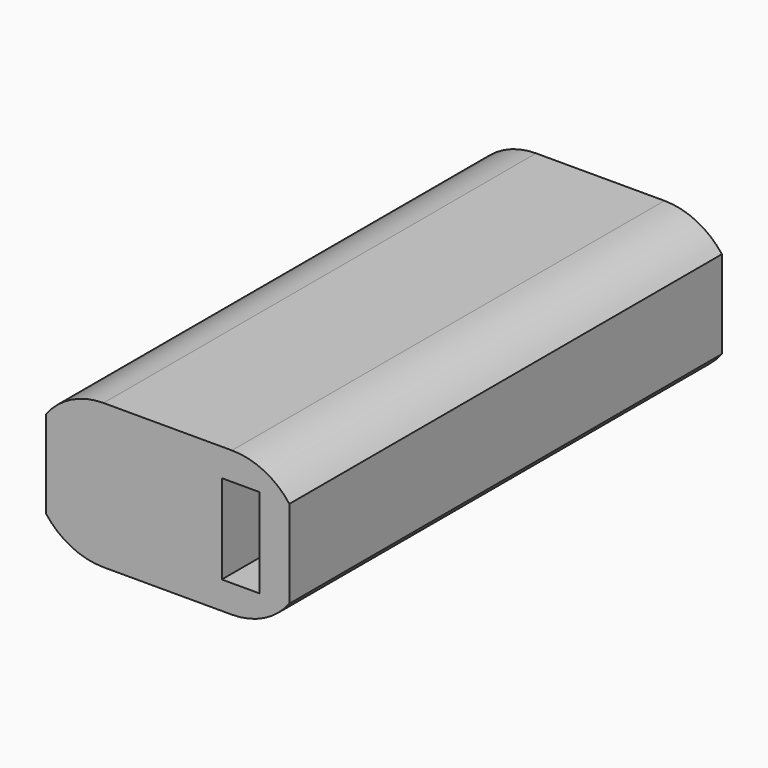
from build123d import *

# Parameters (mm, degrees)
F1_DEPTH = 40
F2_W     = 5.6
F2_H     = 13.2
F3_DEPTH = 10


with BuildPart() as f1:
    # F0 (on Front) → F1 (new body, symmetric)
    with BuildSketch(Plane.XZ):
        with BuildLine():
            Line((-9.5, -10.7), (9.5, -10.7))
            ThreePointArc((9.5, -10.7), (14.240517, -9.592713), (18, -6.5))
            Line((18, -6.5), (18, 6.5))
            ThreePointArc((18, 6.5), (14.240517, 9.592713), (9.5, 10.7))
            Line((9.5, 10.7), (-9.5, 10.7))
            ThreePointArc((-9.5, 10.7), (-14.240517, 9.592713), (-18, 6.5))
            Line((-18, 6.5), (-18, -6.5))
            ThreePointArc((-18, -6.5), (-14.240517, -9.592713), (-9.5, -10.7))
        make_face()
    extrude(amount=F1_DEPTH, both=True)

    # F2 (on face) → F3 (cut)
    with BuildSketch(Plane.XZ.offset(40)):
        with Locations((10.8, 0)):
            Rectangle(F2_W, F2_H)
    extrude(amount=-F3_DEPTH, mode=Mode.SUBTRACT)


solid = f1.part
